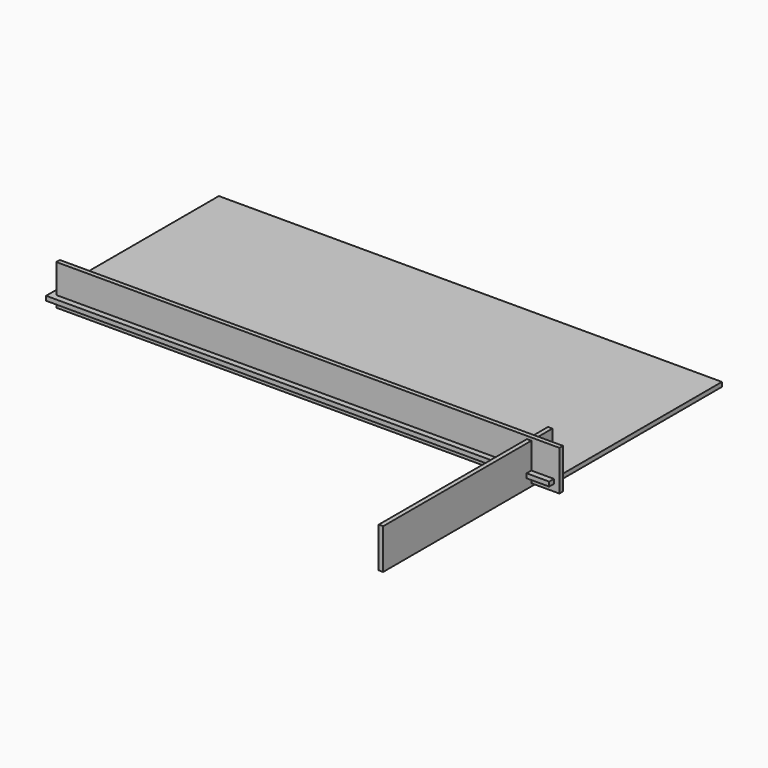
from build123d import *

# Parameters (mm, degrees)
F0_W     = 2050
F0_H     = 880
F1_DEPTH = 18
F2_W     = 2050
F2_H     = 164
F3_DEPTH = 18
F4_W     = 862
F4_H     = 164
F5_DEPTH = 18


with BuildPart() as f1:
    # F0 (on Top) → F1 (new body)
    with BuildSketch(Plane.XY):
        with Locations((-915.03024, 397.812499)):
            Rectangle(F0_W, F0_H)
    extrude(amount=F1_DEPTH)


with BuildPart() as f3:
    # F2 (on Front) → F3 (new body)
    with BuildSketch(Plane.XZ):
        with Locations((-892.71169, 54.510081)):
            Rectangle(F2_W, F2_H)
    extrude(amount=F3_DEPTH)


with BuildPart() as f5:
    # F4 (on Right) → F5 (new body)
    with BuildSketch(Plane.YZ):
        with Locations((-341.752011, 42.897177)):
            Rectangle(F4_W, F4_H)
    extrude(amount=F5_DEPTH)


solid = Compound([f1.part, f3.part, f5.part])
